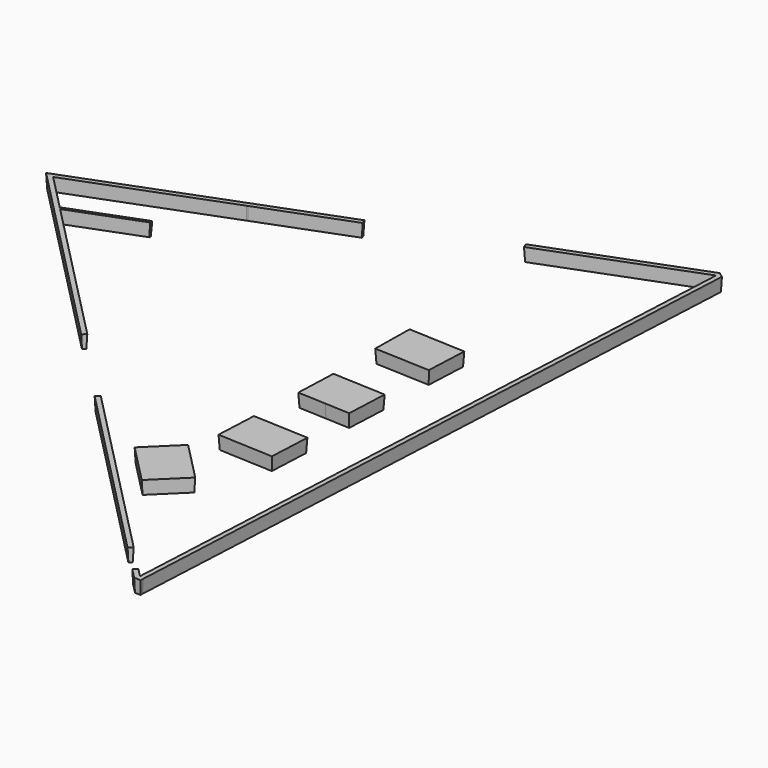
from build123d import *

# Parameters (mm, degrees)
F1_DEPTH = 25.4
F1_TAPER = -3


with BuildPart() as f1:
    # F0 (on Top) → F1 (new body)
    with BuildSketch(Plane.XY):
        Polygon((-347.0672607158, -113.4715431192), (-416.8599761126, -42.1908441073), (-136.7031317252, 64.3287522537), (-134.3289502972, 65.2314496265), (29.489568236, 127.5175683496), (27.232824804, 133.4530219197), (-138.9598751572, 70.2642058237), (-428.1832746342, -39.702623071), (-69.9868951879, -405.5357643277), (-65.449659507, -401.0932433794), (-214.7623137451, -248.5972371001), (-345.1283856185, -115.4517551147), align=None)
        Polygon((-214.7623137451, -63.1673302105), (-347.0672607158, -113.4715431192), (-345.1283856185, -115.4517551147), (-214.7623137451, -65.8847299525), align=None)
    extrude(amount=F1_DEPTH, taper=F1_TAPER)


with BuildPart() as f1b:
    # F0 (on Top) → F1, piece 2 (new body)
    with BuildSketch(Plane.XY):
        Polygon((473.8930384086, -961.0112408853), (478.4302740895, -956.5687199371), (460.6601902965, -938.4197772134), (456.1229546155, -942.8622981616), align=None)
        Polygon((496.9257680351, -583.7652153246), (478.4302740895, -956.5687199371), (473.8930384086, -961.0112408853), (484.9311565472, -961.5588630098), (484.7724737264, -956.8833685751), (548.22134676, 322.0206877443), (539.6224036911, 328.2707899524), (436.354984621, 289.0070560228), (262.2640253228, 222.8152099692), (264.5207687548, 216.8797563991), (351.5662484039, 249.9756794259), (438.611728053, 283.0716024527), (541.8791471231, 322.3353363823), (530.2984636922, 88.9098662905), (524.0748561487, -36.5359698884), align=None)
    extrude(amount=F1_DEPTH, taper=F1_TAPER)


with BuildPart() as f1c:
    # F0 (on Top) → F1, piece 3 (new body)
    with BuildSketch(Plane.XY):
        Polygon((217.3779084847, -638.8124593455), (288.4582436569, -711.4082302403), (342.905071828, -658.0979788612), (271.8247366558, -585.5022079664), align=None)
    extrude(amount=F1_DEPTH, taper=F1_TAPER)


with BuildPart() as f1d:
    # F0 (on Top) → F1, piece 4 (new body)
    with BuildSketch(Plane.XY):
        Polygon((291.2886974357, -453.0779337607), (287.7810001373, -529.1971564293), (389.2732970287, -533.8740861604), (392.7809943271, -457.7548634919), align=None)
    extrude(amount=F1_DEPTH, taper=F1_TAPER)


with BuildPart() as f1e:
    # F0 (on Top) → F1, piece 5 (new body)
    with BuildSketch(Plane.XY):
        Polygon((295.5127456932, -351.5649988721), (346.9283164057, -353.934311802), (392.1942050738, -356.0202374042), (395.7019023722, -279.9010147357), (298.4978964264, -275.4216964099), align=None)
    extrude(amount=F1_DEPTH, taper=F1_TAPER)


with BuildPart() as f1f:
    # F0 (on Top) → F1, piece 6 (new body)
    with BuildSketch(Plane.XY):
        Polygon((297.4541779926, -95.2612408435), (296.3482824517, -171.9824470033), (397.8619873524, -176.1690586814), (401.3696846507, -100.0498360128), align=None)
    extrude(amount=F1_DEPTH, taper=F1_TAPER)


with BuildPart() as f1g:
    # F0 (on Top) → F1, piece 7 (new body)
    with BuildSketch(Plane.XY):
        Polygon((410.9039556759, -887.602737587), (384.1233039537, -860.2511212485), (74.2552466151, -543.7766639507), (69.7180109341, -548.2191848989), (406.366719995, -892.0452585353), align=None)
    extrude(amount=F1_DEPTH, taper=F1_TAPER)


solid = Compound([f1.part, f1b.part, f1c.part, f1d.part, f1e.part, f1f.part, f1g.part])
